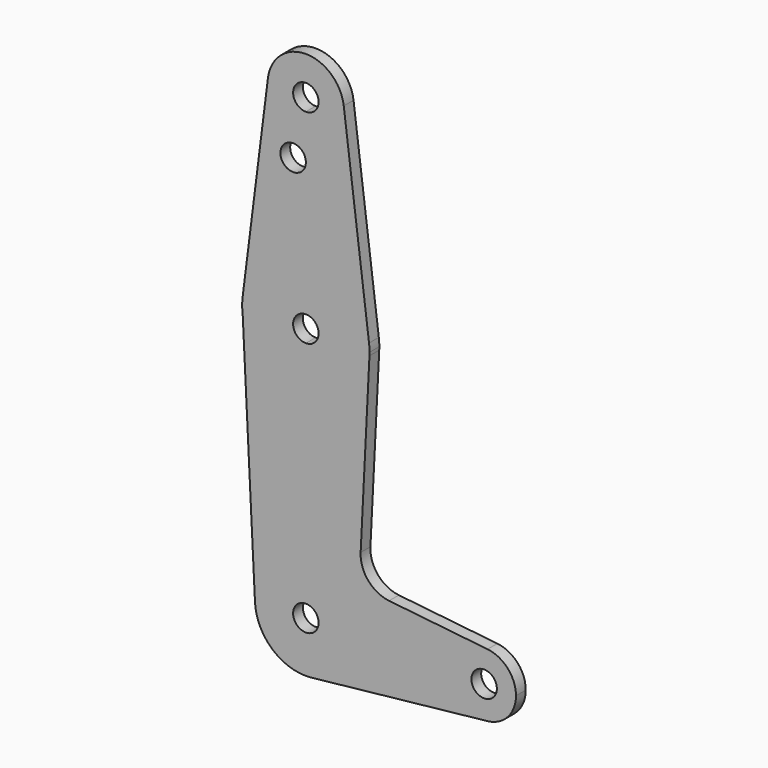
from build123d import *

# Parameters (mm, degrees)
F0_R     = 3.175
F1_DEPTH = 3.048


with BuildPart() as f1:
    # F0 (on Front) → F1 (new body)
    with BuildSketch(Plane.XZ):
        with BuildLine():
            Line((12.7, 0), (3.175, 0))
            ThreePointArc((3.175, 0), (-2.2450640303, -2.2450640303), (0, 3.175))
            Line((0, 3.175), (0, 12.7))
            ThreePointArc((0, 12.7), (-9.1988589652, 8.7561974475), (-12.6845709276, -0.6258277576))
            ThreePointArc((-12.6845709276, -0.6258277576), (-8.2500806742, -9.6553699499), (1.3607142857, -12.62689418))
            ThreePointArc((1.3607142857, -12.62689418), (9.4491023761, -8.4855444307), (12.7, 0))
        make_face()
        with BuildLine():
            ThreePointArc((0, 12.7), (8.9802561211, 8.9802561211), (12.7, 0))
            Line((12.7, 0), (36.5125, 0))
            ThreePointArc((36.5125, 0), (39.1465347308, 5.9056889851), (45.3004464286, 7.8918088625))
            Line((45.3004464286, 7.8918088625), (20.7475162312, 10.5377107287))
            ThreePointArc((20.7475162312, 10.5377107287), (15.5531948979, 13.2797816698), (13.659067343, 18.8396564854))
            Line((13.659067343, 18.8396564854), (15.8551438321, 62.70625))
            ThreePointArc((15.8551438321, 62.70625), (10.941088697, 51.9974697077), (0, 47.625))
            Line((0, 47.625), (0, 12.7))
        make_face()
        with BuildLine():
            Line((36.5125, 0), (12.7, 0))
            ThreePointArc((12.7, 0), (9.4491023761, -8.4855444307), (1.3607142857, -12.62689418))
            Line((1.3607142857, -12.62689418), (45.3004464286, -7.8918088625))
            ThreePointArc((45.3004464286, -7.8918088625), (39.1465347308, -5.9056889851), (36.5125, 0))
        make_face()
        with BuildLine():
            ThreePointArc((-12.6845709276, -0.6258277576), (-9.1988589652, 8.7561974475), (0, 12.7))
            Line((0, 12.7), (0, 47.625))
            ThreePointArc((0, 47.625), (-10.5003255158, 51.59375), (-15.7504882737, 61.515625))
            Line((-15.7504882737, 61.515625), (-12.6845709276, -0.6258277576))
        make_face()
        with BuildLine():
            ThreePointArc((45.3004464286, 7.8918088625), (39.1465347308, 5.9056889851), (36.5125, 0))
            ThreePointArc((36.5125, 0), (39.1465347308, -5.9056889851), (45.3004464286, -7.8918088625))
            ThreePointArc((45.3004464286, -7.8918088625), (50.3556889851, -5.3034652692), (52.3875, 0))
            ThreePointArc((52.3875, 0), (50.3556889851, 5.3034652692), (45.3004464286, 7.8918088625))
        make_face()
        with BuildLine():
            ThreePointArc((47.625, 0), (44.45, -3.175), (41.275, 0))
            ThreePointArc((41.275, 0), (44.45, 3.175), (47.625, 0))
        make_face(mode=Mode.SUBTRACT)
        with BuildLine():
            ThreePointArc((-15.7504882737, 61.515625), (-10.5003255158, 51.59375), (0, 47.625))
            Line((0, 47.625), (0, 60.325))
            ThreePointArc((0, 60.325), (-3.175, 63.5), (0, 66.675))
            Line((0, 66.675), (0, 79.375))
            ThreePointArc((0, 79.375), (-10.5003255158, 75.40625), (-15.7504882737, 65.484375))
            ThreePointArc((-15.7504882737, 65.484375), (-15.875, 63.5), (-15.7504882737, 61.515625))
        make_face()
        with BuildLine():
            Line((0, 60.325), (0, 47.625))
            ThreePointArc((0, 47.625), (10.941088697, 51.9974697077), (15.8551438321, 62.70625))
            ThreePointArc((15.8551438321, 62.70625), (15.8700351817, 63.1030008407), (15.875, 63.5))
            ThreePointArc((15.875, 63.5), (15.8438414904, 64.4941387366), (15.7504882737, 65.484375))
            ThreePointArc((15.7504882737, 65.484375), (10.5003255158, 75.40625), (0, 79.375))
            Line((0, 79.375), (0, 66.675))
            ThreePointArc((0, 66.675), (2.2450640303, 65.7450640303), (3.175, 63.5))
            ThreePointArc((3.175, 63.5), (2.2450640303, 61.2549359697), (0, 60.325))
        make_face()
        with BuildLine():
            Line((-9.4502929642, 115.490625), (-15.7504882737, 65.484375))
            ThreePointArc((-15.7504882737, 65.484375), (-10.5003255158, 75.40625), (0, 79.375))
            Line((0, 79.375), (0, 100.0252))
            Line((0, 100.0252), (0, 104.775))
            ThreePointArc((0, 104.775), (-7.14375, 107.9998046905), (-9.4502929642, 115.490625))
        make_face()
        with Locations((-3.175, 100.0252)):
            Circle(F0_R, mode=Mode.SUBTRACT)
        with BuildLine():
            Line((0, 100.0252), (0, 79.375))
            ThreePointArc((0, 79.375), (10.5003255158, 75.40625), (15.7504882737, 65.484375))
            Line((15.7504882737, 65.484375), (9.4502929642, 115.490625))
            ThreePointArc((9.4502929642, 115.490625), (9.5063048942, 114.896483242), (9.525, 114.3))
            ThreePointArc((9.525, 114.3), (6.7351920908, 107.5648079092), (0, 104.775))
            Line((0, 104.775), (0, 100.0252))
        make_face()
        with BuildLine():
            ThreePointArc((9.4502929642, 115.490625), (0, 123.825), (-9.4502929642, 115.490625))
            ThreePointArc((-9.4502929642, 115.490625), (-7.14375, 107.9998046905), (0, 104.775))
            ThreePointArc((0, 104.775), (6.7351920908, 107.5648079092), (9.525, 114.3))
            ThreePointArc((9.525, 114.3), (9.5063048942, 114.896483242), (9.4502929642, 115.490625))
        make_face()
        with BuildLine():
            ThreePointArc((3.175, 114.3), (2.2450640303, 112.0549359697), (0, 111.125))
            ThreePointArc((0, 111.125), (-2.2450640303, 116.5450640303), (3.175, 114.3))
        make_face(mode=Mode.SUBTRACT)
        with BuildLine():
            ThreePointArc((0, 3.175), (2.2450640303, 2.2450640303), (3.175, 0))
            Line((3.175, 0), (12.7, 0))
            ThreePointArc((12.7, 0), (8.9802561211, 8.9802561211), (0, 12.7))
            Line((0, 12.7), (0, 3.175))
        make_face()
    extrude(amount=F1_DEPTH)


solid = f1.part
